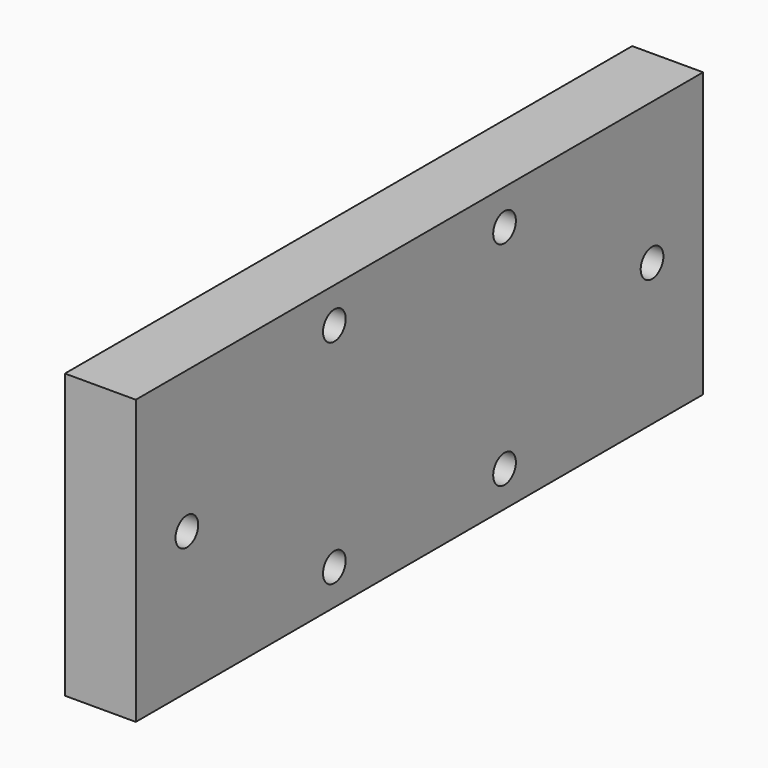
from build123d import *

# Parameters (mm, degrees)
F0_W     = 100
F0_H     = 40
F1_DEPTH = 10
F2_R     = 2
F3_DEPTH = 10.001
F4_R     = 2
F5_DEPTH = 10.001


with BuildPart() as f1:
    # F0 (on Right) → F1 (new body)
    with BuildSketch(Plane.YZ):
        Rectangle(F0_W, F0_H)
    extrude(amount=F1_DEPTH)

    # F2 (on face) → F3 (cut, through all)
    with BuildSketch(Plane.YZ.offset(10)):
        with Locations((-15, 15)):
            Circle(F2_R)
        with Locations((15, 15)):
            Circle(F2_R)
        with Locations((-15, -15)):
            Circle(F2_R)
        with Locations((15, -15)):
            Circle(F2_R)
    extrude(amount=-F3_DEPTH, mode=Mode.SUBTRACT)

    # F4 (on face) → F5 (cut, through all)
    with BuildSketch(Plane.YZ.offset(10)):
        with Locations((-41, 0)):
            Circle(F4_R)
        with Locations((41, 0)):
            Circle(F4_R)
    extrude(amount=-F5_DEPTH, mode=Mode.SUBTRACT)


solid = f1.part
